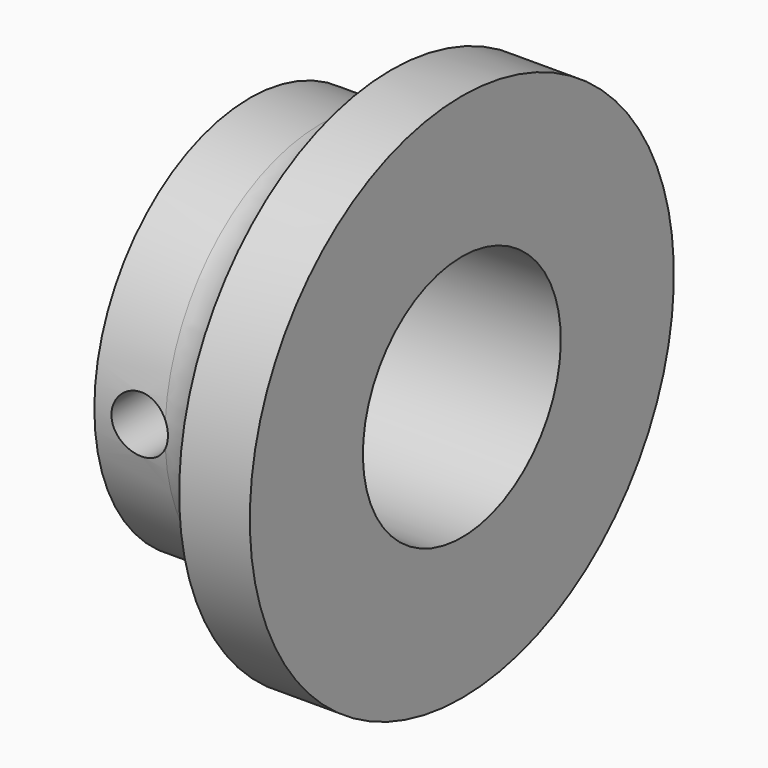
from build123d import *

# Parameters (mm, degrees)
F2_R     = 2.54
F3_DEPTH = 25.4


with BuildPart() as f1:
    # F0 (on Front) → F1 (revolve)
    with BuildSketch(Plane.XZ):
        with BuildLine():
            Line((-11.69482, 17.4625), (-11.69482, 11.1125))
            Line((-11.69482, 11.1125), (7.35518, 11.1125))
            Line((7.35518, 11.1125), (7.35518, 23.8125))
            Line((7.35518, 23.8125), (1.00518, 23.8125))
            ThreePointArc((1.00518, 23.8125), (-0.854692, 19.322372), (-5.34482, 17.4625))
            Line((-5.34482, 17.4625), (-11.69482, 17.4625))
        make_face()
    revolve(axis=Axis((2.332425, 0, 0), (1, 0, 0)))

    # F2 (on Front) → F3 (cut)
    with BuildSketch(Plane.XZ):
        with Locations((-7.62, 0)):
            Circle(F2_R)
    extrude(amount=F3_DEPTH, mode=Mode.SUBTRACT)


solid = f1.part
